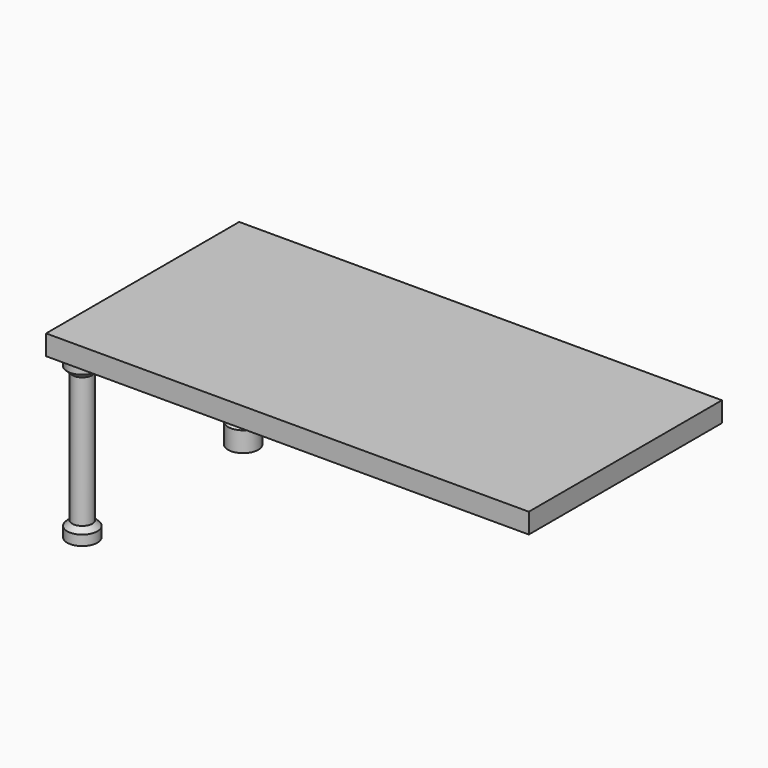
from build123d import *

# Parameters (mm, degrees)
F0_W      = 1219.2
F0_H      = 609.6
F2_DEPTH  = 25.4
F1_W      = 1219.2
F1_H      = 609.6
F3_DEPTH  = 25.4
F4_R      = 12.7
F11_DEPTH = 25.4


with BuildPart() as f2:
    # F0 (on Top) → F2 (new body, symmetric)
    with BuildSketch(Plane.XY):
        Rectangle(F0_W, F0_H)
    extrude(amount=F2_DEPTH, both=True)

    # F4 (on face) → F11 (cut)
    with BuildSketch(Plane(origin=(0, 0, -25.4), x_dir=(1, 0, 0), z_dir=(0, 0, -1))):
        with Locations((-558.8, 254)):
            Circle(F4_R)
        with Locations((-558.8, -254)):
            Circle(F4_R)
        with Locations((558.8, -254)):
            Circle(F4_R)
        with Locations((558.8, 254)):
            Circle(F4_R)
    extrude(amount=-F11_DEPTH, mode=Mode.SUBTRACT)


with BuildPart() as f3:
    # F1 (on Top) → F3 (new body, symmetric)
    with BuildSketch(Plane.XY):
        Rectangle(F1_W, F1_H)
    extrude(amount=F3_DEPTH, both=True)


with BuildPart() as f7:
    # F6 (on plane+point) → F7 (revolve)
    with BuildSketch(Plane.XZ.offset(254)):
        Polygon((-571.5, 0), (-571.5, -25.4), (-596.9, -25.4), (-596.9, -50.8), (-584.2, -63.5), (-584.2, -393.7), (-596.9, -406.4), (-596.9, -431.8), (-558.8, -431.8), (-558.8, 0), align=None)
    revolve(axis=Axis((-558.8, -254, -215.9), (0, 0, -1)))


with BuildPart() as f10:
    # F9 (on plane+point) → F10 (revolve)
    with BuildSketch(Plane(origin=(0, 254, 0), x_dir=(-1, 0, 0), z_dir=(0, 1, 0))):
        Polygon((596.9, -25.4), (558.8, -25.4), (558.8, -431.8), (596.9, -431.8), (596.9, -381), (584.2, -368.3), (584.2, -88.9), (596.9, -76.2), align=None)
    revolve(axis=Axis((-558.8, 254, -228.6), (0, 0, -1)))


solid = Compound([f2.part, f3.part, f7.part, f10.part])
